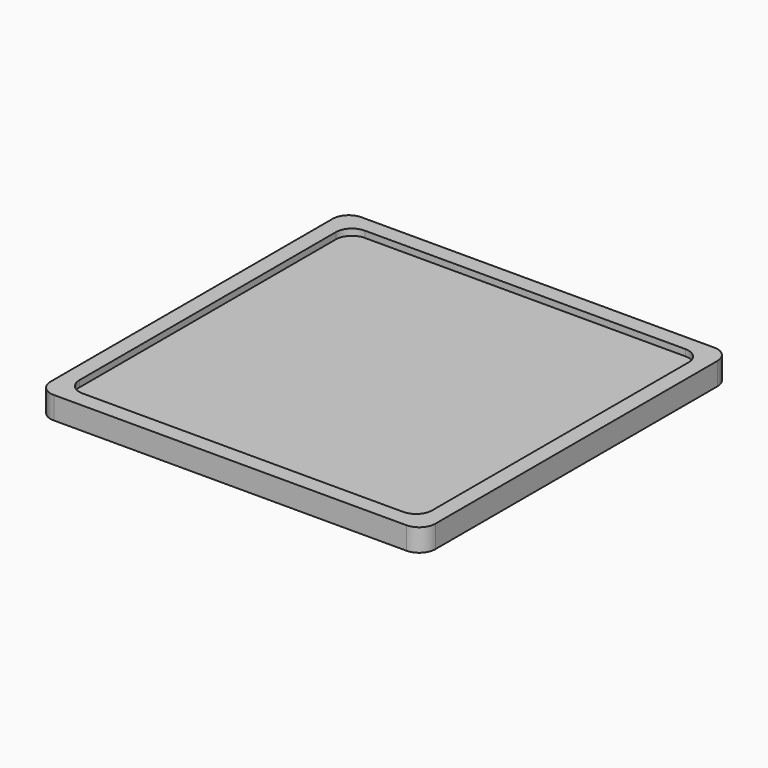
from build123d import *

# Parameters (mm, degrees)
SKETCH003_W   = 12
SKETCH003_H   = 12
SKETCH003_W_2 = 11
SKETCH003_H_2 = 11
PAD002_DEPTH  = 0.7
FILLET001_R   = 0.5
SKETCH004_W   = 11
SKETCH004_H   = 11
PAD_DEPTH     = 0.5
FILLET_R      = 0.5
SKETCH005_R   = 1.5
PAD003_DEPTH  = 1.5


with BuildPart() as body01:
    # Sketch003 → Pad002 (new body)
    with BuildSketch(Plane.XY):
        Rectangle(SKETCH003_W, SKETCH003_H)
        Rectangle(SKETCH003_W_2, SKETCH003_H_2, mode=Mode.SUBTRACT)
    extrude(amount=PAD002_DEPTH)

    # Fillet001
    fillet001_edges = [body01.edges().sort_by_distance(p)[0] for p in [
        (6, 6, 0.35),
        (5.5, 5.5, 0.35),
        (-5.5, 5.5, 0.35),
        (-6, 6, 0.35),
        (-5.5, -5.5, 0.35),
        (-6, -6, 0.35),
        (5.5, -5.5, 0.35),
        (6, -6, 0.35),
    ]]
    fillet(fillet001_edges, radius=FILLET001_R)


with BuildPart() as body:
    # Sketch004 → Pad (new body)
    with BuildSketch(Plane.XY):
        Rectangle(SKETCH004_W, SKETCH004_H)
    extrude(amount=PAD_DEPTH)

    # Fillet
    fillet_edges = [body.edges().sort_by_distance(p)[0] for p in [
        (-5.5, 5.5, 0.25),
        (5.5, 5.5, 0.25),
        (5.5, -5.5, 0.25),
        (-5.5, -5.5, 0.25),
    ]]
    fillet(fillet_edges, radius=FILLET_R)

    # Sketch005 (on Face2 of Fillet) → Pad003 (join)
    with BuildSketch(Plane(origin=(0, 0, 0), x_dir=(1, 0, 0), z_dir=(0, 0, -1))):
        Circle(SKETCH005_R)
    extrude(amount=PAD003_DEPTH)


solid = Compound([body01.part, body.part])
